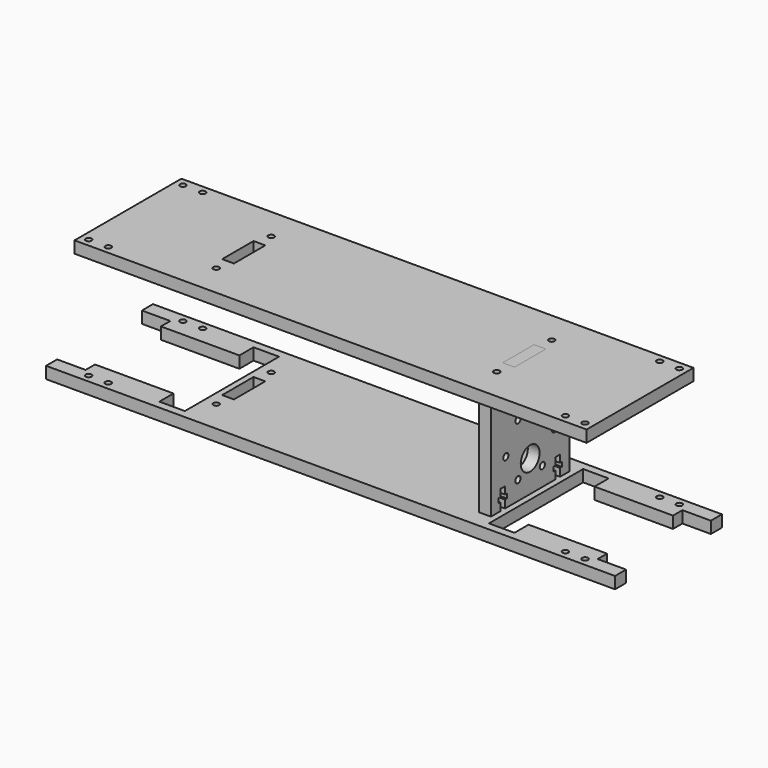
from build123d import *

# Parameters (mm, degrees)
F0_R      = 1.5
F0_W      = 6
F0_H      = 20
F1_DEPTH  = 6
F2_D      = 3
F3_W      = 6
F3_H      = 50
F4_DEPTH  = 55
F5_W      = 6
F5_H      = 20
F6_DEPTH  = 6
F7_R      = 6
F7_R_2    = 1.65
F8_DEPTH  = 6
F10_DEPTH = 6
F11_W     = 6
F11_H     = 20
F12_DEPTH = 6
F13_W     = 261
F13_H     = 68.1
F13_R     = 1.5
F13_W_2   = 6
F13_H_2   = 20
F14_DEPTH = 6


with BuildPart() as f1:
    # F0 (on Top) → F1 (new body)
    with BuildSketch(Plane.XY):
        Polygon((145, 27), (145, 34.05), (-145, 34.05), (-145, 27), (-130.5, 27), (-130.5, 21), (-90.5, 21), (-90.5, 30), (-77.5, 30), (-77.5, -30), (-90.5, -30), (-90.5, -21), (-130.5, -21), (-130.5, -27), (-145, -27), (-145, -34.05), (145, -34.05), (145, -27), (130.5, -27), (130.5, -21), (90.5, -21), (90.5, -30), (77.5, -30), (77.5, 30), (90.5, 30), (90.5, 21), (130.5, 21), (130.5, 27), align=None)
        with Locations((-71.5, -17.5)):
            Circle(F0_R, mode=Mode.SUBTRACT)
        with Locations((71.5, -17.5)):
            Circle(F0_R, mode=Mode.SUBTRACT)
        with Locations((-71.5, 0)):
            Rectangle(F0_W, F0_H, mode=Mode.SUBTRACT)
        with Locations((-71.5, 17.5)):
            Circle(F0_R, mode=Mode.SUBTRACT)
        with Locations((71.5, 0)):
            Rectangle(F0_W, F0_H, mode=Mode.SUBTRACT)
        with Locations((71.5, 17.5)):
            Circle(F0_R, mode=Mode.SUBTRACT)
    extrude(amount=F1_DEPTH)

    # F2 (through all)
    with Locations(Plane(origin=(0, 0, 0), x_dir=(1, 0, 0), z_dir=(0, 0, -1))):
        with Locations((126.5, 30.05), (116.5, 30.05), (126.5, -30.05), (116.5, -30.05), (-116.5, 30.05), (-126.5, 30.05), (-116.5, -30.05), (-126.5, -30.05)):
            Hole(F2_D / 2)


with BuildPart() as f4:
    # F3 (on face) → F4 (new body)
    with BuildSketch(Plane.XY.offset(6)):
        with Locations((71.5, 0)):
            Rectangle(F3_W, F3_H)
    extrude(amount=F4_DEPTH)

    # F5 (on face) → F6 (join)
    with BuildSketch(Plane(origin=(0, 0, 6), x_dir=(1, 0, 0), z_dir=(0, 0, -1))):
        with Locations((71.5, 0)):
            Rectangle(F5_W, F5_H)
    extrude(amount=F6_DEPTH)

    # F7 (on face) → F8 (cut, through all)
    with BuildSketch(Plane(origin=(68.5, 0, 0), x_dir=(0, -1, 0), z_dir=(-1, 0, 0))):
        with Locations((0, 22)):
            Circle(F7_R)
        with Locations((7.75, 15.5766062413)):
            Circle(F7_R_2)
        with Locations((15.5, 29)):
            Circle(F7_R_2)
        with Locations((7.75, 42.4233937587)):
            Circle(F7_R_2)
        with Locations((-7.75, 42.4233937587)):
            Circle(F7_R_2)
        with Locations((-15.5, 29)):
            Circle(F7_R_2)
        with Locations((-7.75, 15.5766062413)):
            Circle(F7_R_2)
    extrude(amount=-F8_DEPTH, mode=Mode.SUBTRACT)

    # F9 (on face) → F10 (cut, through all)
    with BuildSketch(Plane(origin=(68.5, 0, 0), x_dir=(0, -1, 0), z_dir=(-1, 0, 0))):
        Polygon((16, 6), (19, 6), (19, 10), (20.2, 10), (20.2, 12.3), (19, 12.3), (19, 16), (16, 16), (16, 12.3), (14.8, 12.3), (14.8, 10), (16, 10), align=None)
        Polygon((-19, 10), (-19, 6), (-16, 6), (-16, 10), (-14.8, 10), (-14.8, 12.3), (-16, 12.3), (-16, 16), (-19, 16), (-19, 12.3), (-20.2, 12.3), (-20.2, 10), align=None)
        Polygon((19, 61), (16, 61), (16, 57), (14.8, 57), (14.8, 54.7), (16, 54.7), (16, 51), (19, 51), (19, 54.7), (20.2, 54.7), (20.2, 57), (19, 57), align=None)
        Polygon((-16, 61), (-19, 61), (-19, 57), (-20.2, 57), (-20.2, 54.7), (-19, 54.7), (-19, 51), (-16, 51), (-16, 54.7), (-14.8, 54.7), (-14.8, 57), (-16, 57), align=None)
    extrude(amount=-F10_DEPTH, mode=Mode.SUBTRACT)

    # F11 (on face) → F12 (join)
    with BuildSketch(Plane.XY.offset(61)):
        with Locations((71.5, 0)):
            Rectangle(F11_W, F11_H)
    extrude(amount=F12_DEPTH)


with BuildPart() as f14:
    # F13 (on face) → F14 (new body)
    with BuildSketch(Plane.XY.offset(61)):
        Rectangle(F13_W, F13_H)
        with Locations((-126.5, -30.05)):
            Circle(F13_R, mode=Mode.SUBTRACT)
        with Locations((-116.5, -30.05)):
            Circle(F13_R, mode=Mode.SUBTRACT)
        with Locations((-71.5, -17.5)):
            Circle(F13_R, mode=Mode.SUBTRACT)
        with Locations((116.5, -30.05)):
            Circle(F13_R, mode=Mode.SUBTRACT)
        with Locations((126.5, -30.05)):
            Circle(F13_R, mode=Mode.SUBTRACT)
        with Locations((71.5, -17.5)):
            Circle(F13_R, mode=Mode.SUBTRACT)
        with Locations((-71.5, 0)):
            Rectangle(F13_W_2, F13_H_2, mode=Mode.SUBTRACT)
        with Locations((-71.5, 17.5)):
            Circle(F13_R, mode=Mode.SUBTRACT)
        with Locations((-126.5, 30.05)):
            Circle(F13_R, mode=Mode.SUBTRACT)
        with Locations((-116.5, 30.05)):
            Circle(F13_R, mode=Mode.SUBTRACT)
        with Locations((71.5, 0)):
            Rectangle(F13_W_2, F13_H_2, mode=Mode.SUBTRACT)
        with Locations((71.5, 17.5)):
            Circle(F13_R, mode=Mode.SUBTRACT)
        with Locations((116.5, 30.05)):
            Circle(F13_R, mode=Mode.SUBTRACT)
        with Locations((126.5, 30.05)):
            Circle(F13_R, mode=Mode.SUBTRACT)
    extrude(amount=F14_DEPTH)


solid = Compound([f1.part, f4.part, f14.part])
